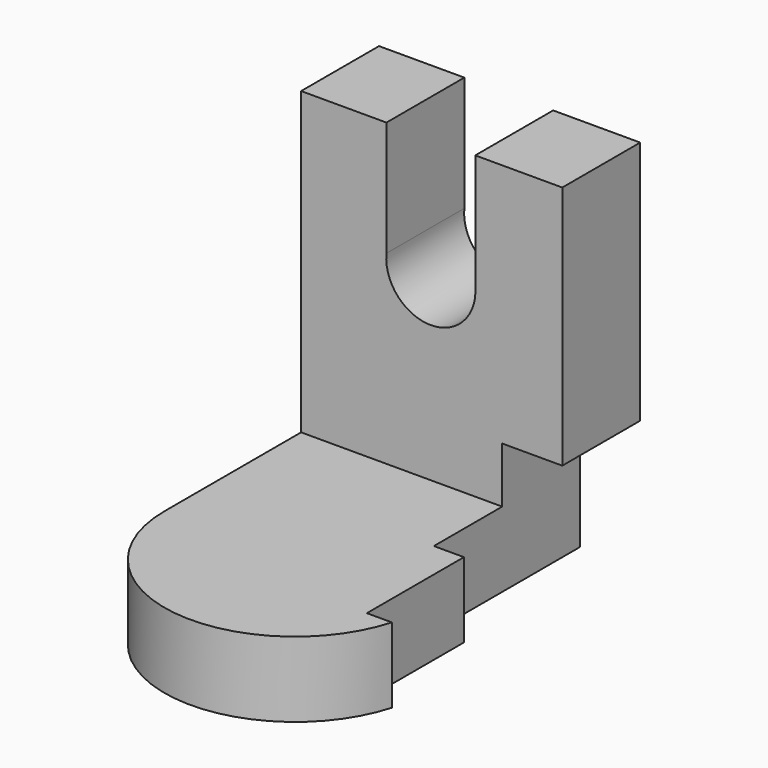
from build123d import *

# Parameters (mm, degrees)
F0_W      = 44.1574328202
F0_H      = 45.3486293554
F1_DEPTH  = 25.4
F2_DEPTH  = 12.7
F3_W      = 44.1574328202
F3_H      = 16.4641523734
F4_DEPTH  = 50.8
F5_W      = 15.0199290365
F5_H      = 19.4511728585
F6_DEPTH  = 50.8
F8_DEPTH  = 10.16
F10_DEPTH = 50.8


with BuildPart() as f1:
    # F0 (on Top) → F1 (new body)
    with BuildSketch(Plane.XY):
        Rectangle(F0_W, F0_H)
        with BuildLine():
            Line((22.0787164101, -22.6743146777), (-22.0787164101, -22.6743146777))
            ThreePointArc((-22.0787164101, -22.6743146777), (0, -44.7530310878), (22.0787164101, -22.6743146777))
        make_face()
    extrude(amount=F1_DEPTH)

    # F2 (cut): a face of the model
    f2_faces = [f1.faces().sort_by_distance(p)[0] for p in [
        (0, -8.8639771544, 25.4),
    ]]
    extrude(f2_faces, amount=-F2_DEPTH, mode=Mode.SUBTRACT)

    # F3 (on face) → F4 (join)
    with BuildSketch(Plane.XY.offset(12.7)):
        with Locations((0, 14.442238491)):
            Rectangle(F3_W, F3_H)
    extrude(amount=F4_DEPTH)

    # F5 (on face) → F6 (cut)
    with BuildSketch(Plane.XZ.offset(-6.2101623043)):
        with Locations((-0.1444215886, 53.7744135708)):
            Rectangle(F5_W, F5_H)
        with BuildLine():
            Line((7.3655429296, 44.0488271415), (-7.6543861069, 44.0488271415))
            ThreePointArc((-7.6543861069, 44.0488271415), (-0.1444215886, 35.7909022145), (7.3655429296, 44.0488271415))
        make_face()
    extrude(amount=-F6_DEPTH, mode=Mode.SUBTRACT)

    # F7 (on face) → F8 (cut)
    with BuildSketch(Plane.YZ.offset(22.0787164101)):
        Polygon((-8.2320761867, 0), (22.6743146777, 0), (22.6743146777, 22.0966245979), (6.2101623043, 22.0966245979), (6.2101623043, 12.7), (-8.2320761867, 12.7), align=None)
    extrude(amount=-F8_DEPTH, mode=Mode.SUBTRACT)

    # F9 (on face) → F10 (cut)
    with BuildSketch(Plane.XY.offset(12.7)):
        with BuildLine():
            Line((22.0787164101, -8.2320761867), (16.9987164101, -8.2320761867))
            Line((16.9987164101, -8.2320761867), (16.9987164101, -28.7400558591))
            Line((16.9987164101, -28.7400558591), (21.229142758, -28.7400558591))
            ThreePointArc((21.229142758, -28.7400558591), (21.8652914559, -25.7367888192), (22.0787164101, -22.6743146777))
            Line((22.0787164101, -22.6743146777), (22.0787164101, -8.2320761867))
        make_face()
    extrude(amount=-F10_DEPTH, mode=Mode.SUBTRACT)


solid = f1.part
